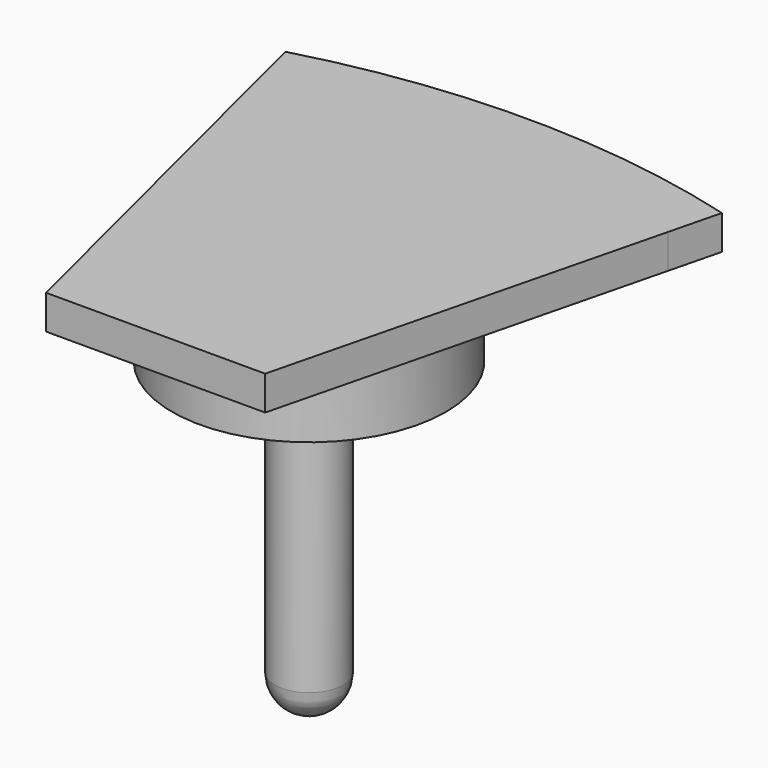
from build123d import *

# Parameters (mm, degrees)
F0_R     = 12.7
F1_DEPTH = 6.35
F2_R     = 3.175
F3_DEPTH = 25.4
F7_DEPTH = 3.175


with BuildPart() as f1:
    # F0 (on Top) → F1 (new body)
    with BuildSketch(Plane.XY):
        Circle(F0_R)
    extrude(amount=F1_DEPTH)

    # F2 (on face) → F3 (join)
    with BuildSketch(Plane(origin=(0, 0, 0), x_dir=(1, 0, 0), z_dir=(0, 0, -1))):
        Circle(F2_R)
    extrude(amount=F3_DEPTH)

    # F4 (on Right) → F5 (revolve)
    with BuildSketch(Plane.YZ):
        with BuildLine():
            Line((0, -28.575), (0, -25.4))
            Line((0, -25.4), (-3.175, -25.4))
            ThreePointArc((-3.175, -25.4), (-2.245064, -27.645064), (0, -28.575))
        make_face()
    revolve(axis=Axis((0, 0, -12.7), (0, 0, -1)))

    # F6 (on face) → F7 (join)
    with BuildSketch(Plane.XY.offset(6.35)):
        with BuildLine():
            Line((-10.16, -17.78), (0, -17.78))
            Line((0, -17.78), (10.16, -17.78))
            Line((10.16, -17.78), (19.05, 17.78))
            Line((19.05, 17.78), (20.244957, 22.55983))
            ThreePointArc((20.244957, 22.55983), (0, 25.2984), (-20.244957, 22.55983))
            Line((-20.244957, 22.55983), (-19.05, 17.78))
            Line((-19.05, 17.78), (-10.16, -17.78))
        make_face()
    extrude(amount=F7_DEPTH)


solid = f1.part
